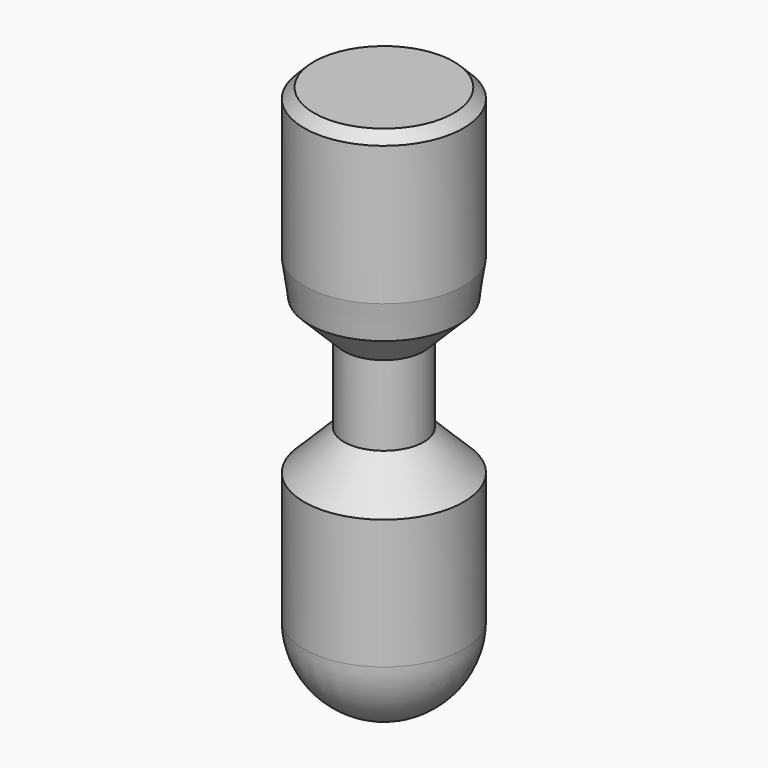
from build123d import *

# Parameters (mm, degrees)
F0_W     = 4
F0_H     = 7.471158
F0_W_2   = 2
F0_H_2   = 4
F0_H_3   = 6.5
F2_SIZE2 = 0.5
F2_SIZE  = 0.5


with BuildPart() as f1:
    # F0 (on Front) → F1 (revolve)
    with BuildSketch(Plane.XZ):
        with Locations((-2, 11.264421)):
            Rectangle(F0_W, F0_H)
        Polygon((0, 5.75), (0, 7.528842), (-4, 7.528842), (-3.75, 5.75), align=None)
        Polygon((0, 4), (0, 5.75), (-3.75, 5.75), (-2, 4), align=None)
        with Locations((-1, 2)):
            Rectangle(F0_W_2, F0_H_2)
        Polygon((0, -2), (0, 0), (-2, 0), (-4, -2), align=None)
        with Locations((-2, -5.25)):
            Rectangle(F0_W, F0_H_3)
        with BuildLine():
            Line((0, -12.5), (0, -8.5))
            Line((0, -8.5), (-4, -8.5))
            ThreePointArc((-4, -8.5), (-2.828427, -11.328427), (0, -12.5))
        make_face()
    revolve(axis=Axis((0, 0, 1.25), (0, 0, -1)))

    # F2
    f2_edges = [f1.edges().sort_by_distance(p)[0] for p in [
        (4, 0, 15),
    ]]
    chamfer(f2_edges, length=F2_SIZE, length2=F2_SIZE2)


solid = f1.part
